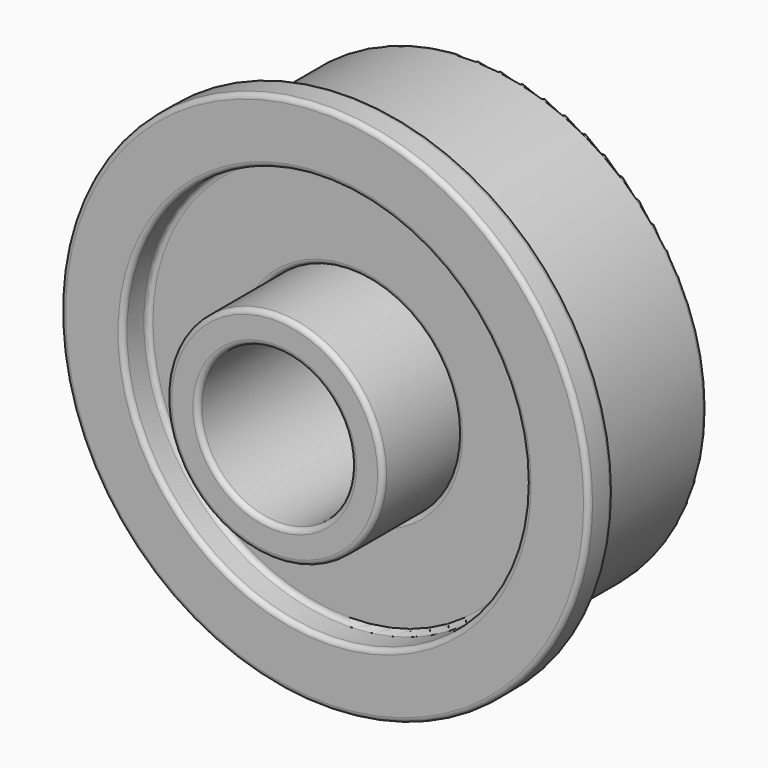
from build123d import *

# Parameters (mm, degrees)
F0_R     = 5.4971314259
F0_R_2   = 3.9096314259
F1_DEPTH = 12.7
F0_R_3   = 11.8471314259
F2_DEPTH = 7.9375
F3_R     = 13.4346314259
F3_R_2   = 11.8471314259
F3_R_3   = 10.2596314259
F4_DEPTH = 1.5875
F5_R     = 0.254
F5_2_R   = 0.254


with BuildPart() as f1:
    # F0 (on Front) → F1 (new body)
    with BuildSketch(Plane.XZ):
        Circle(F0_R)
        Circle(F0_R_2, mode=Mode.SUBTRACT)
    extrude(amount=F1_DEPTH)

    # F5#2
    f5_2_edges = [f1.edges().sort_by_distance(p)[0] for p in [
        (-5.497131, -12.7, 0),
        (-3.909631, -12.7, 0),
        (-5.497131, 0, 0),
        (-3.909631, 0, 0),
    ]]
    fillet(f5_2_edges, radius=F5_2_R)


with BuildPart() as f2:
    # F0 (on Front) → F2 (new body)
    with BuildSketch(Plane.XZ):
        Circle(F0_R_3)
        Circle(F0_R, mode=Mode.SUBTRACT)
    extrude(amount=F2_DEPTH)

    # F3 (on face) → F4 (join)
    with BuildSketch(Plane.XZ.offset(7.9375)):
        Circle(F3_R)
        Circle(F3_R_2, mode=Mode.SUBTRACT)
        Circle(F3_R_2)
        Circle(F3_R_3, mode=Mode.SUBTRACT)
    extrude(amount=F4_DEPTH)

    # F5
    f5_edges = [f2.edges().sort_by_distance(p)[0] for p in [
        (-13.434631, -9.525, 0),
        (-13.434631, -7.9375, 0),
        (-10.259631, -9.525, 0),
        (-10.259631, -7.9375, 0),
        (-5.497131, -7.9375, 0),
        (-11.847131, 0, 0),
    ]]
    fillet(f5_edges, radius=F5_R)


solid = Compound([f1.part, f2.part])
